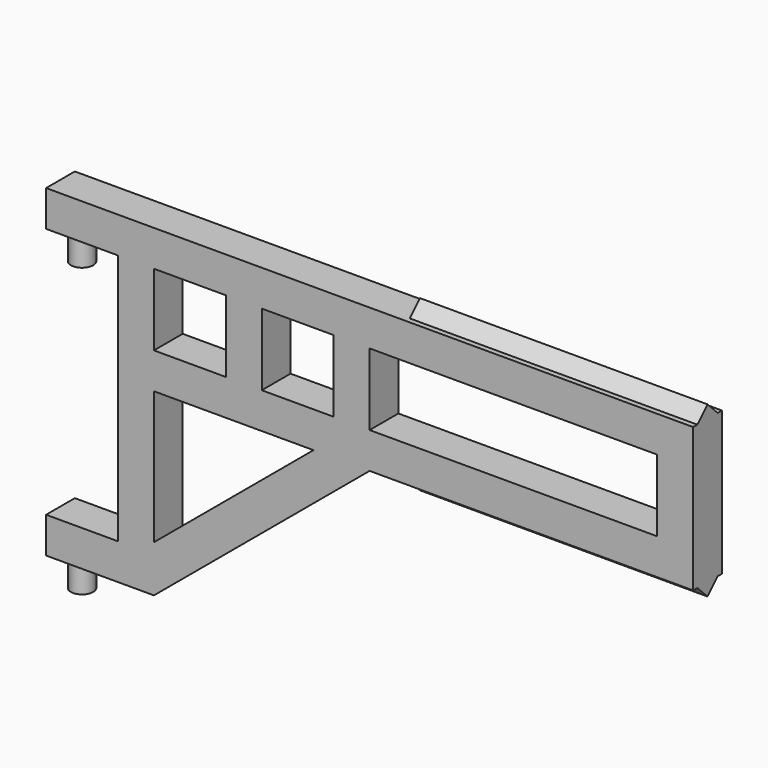
from build123d import *

# Parameters (mm, degrees)
F0_W     = 100
F0_H     = 100
F0_W_2   = 400
F1_DEPTH = 25
F3_DEPTH = 400
F4_R     = 15.5
F6_DEPTH = 40
F5_R     = 15.5
F7_DEPTH = 40


with BuildPart() as f1:
    # F0 (on Front) → F1 (new body, symmetric)
    with BuildSketch(Plane.XZ):
        Polygon((900, 200), (0, 200), (0, 150), (100, 150), (100, -200), (0, -200), (0, -250), (150, -250), (450, 0), (900, 0), align=None)
        Polygon((150, -184.914586), (150, 0), (371.897503, 0), align=None, mode=Mode.SUBTRACT)
        with Locations((200, 100)):
            Rectangle(F0_W, F0_H, mode=Mode.SUBTRACT)
        with Locations((350, 100)):
            Rectangle(F0_W, F0_H, mode=Mode.SUBTRACT)
        with Locations((650, 100)):
            Rectangle(F0_W_2, F0_H, mode=Mode.SUBTRACT)
    extrude(amount=F1_DEPTH, both=True)

    # F2 (on face) → F3 (join)
    with BuildSketch(Plane.YZ.offset(900)):
        Polygon((0, 217.67767), (-17.67767, 200), (17.67767, 200), align=None)
        Polygon((17.67767, 0), (-17.67767, 0), (0, -17.67767), align=None)
    extrude(amount=-F3_DEPTH)

    # F4 (on face) → F6 (join)
    with BuildSketch(Plane(origin=(0, 0, -250), x_dir=(1, 0, 0), z_dir=(0, 0, -1))):
        with Locations((30, 0)):
            Circle(F4_R)
    extrude(amount=F6_DEPTH)

    # F5 (on face) → F7 (join)
    with BuildSketch(Plane(origin=(0, 0, 150), x_dir=(1, 0, 0), z_dir=(0, 0, -1))):
        with Locations((30, 0)):
            Circle(F5_R)
    extrude(amount=F7_DEPTH)


solid = f1.part
